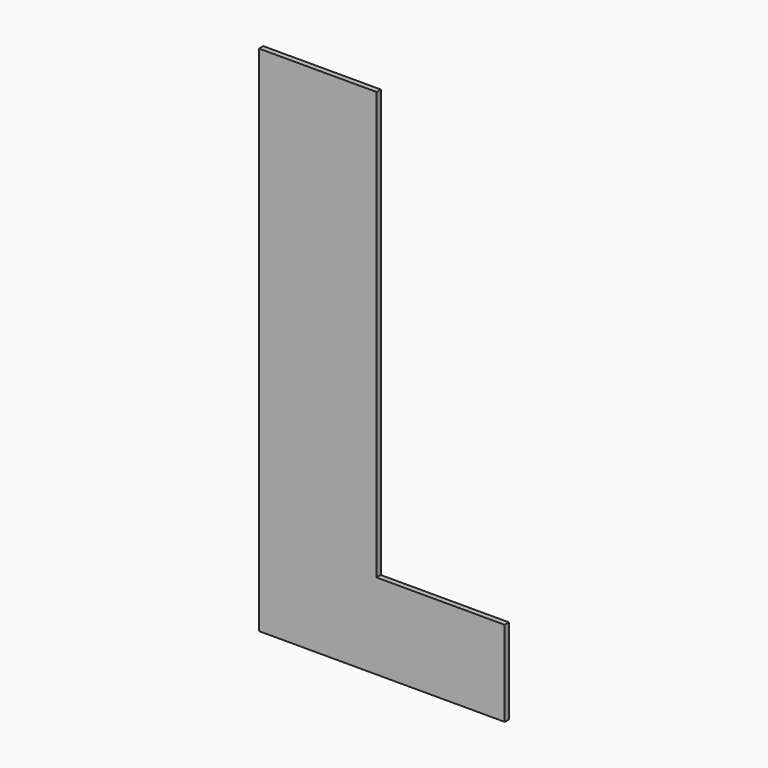
from build123d import *

# Parameters (mm, degrees)
F0_W     = 69.85
F0_H     = 254
F0_H_2   = 50.8
F0_W_2   = 76.2
F1_DEPTH = 3.175


with BuildPart() as f1:
    # F0 (on Front) → F1 (new body)
    with BuildSketch(Plane.XZ):
        with Locations((-34.925, 177.8)):
            Rectangle(F0_W, F0_H)
        with Locations((-34.925, 25.4)):
            Rectangle(F0_W, F0_H_2)
        with Locations((38.1, 25.4)):
            Rectangle(F0_W_2, F0_H_2)
    extrude(amount=F1_DEPTH)


solid = f1.part
